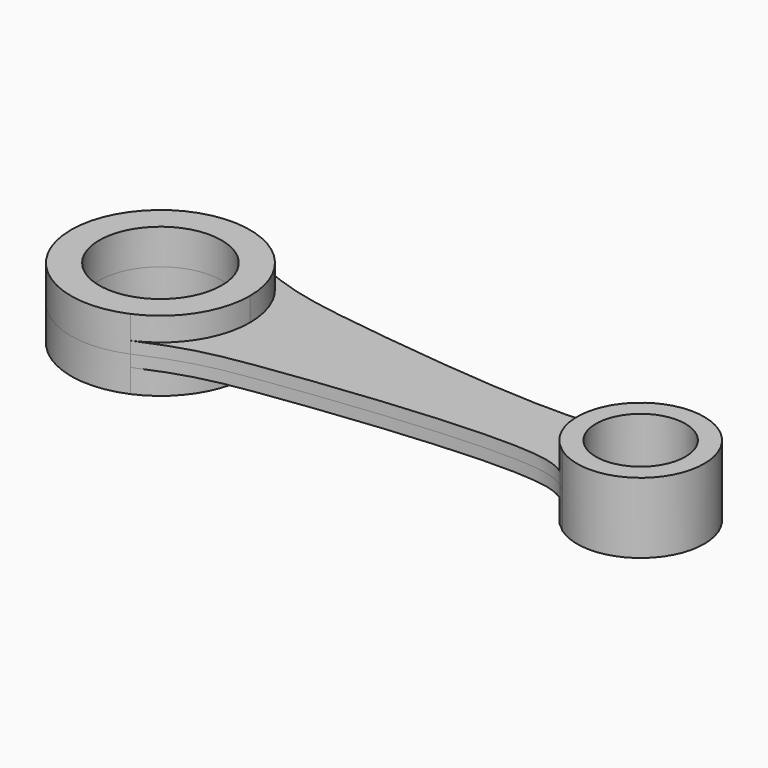
from build123d import *

# Parameters (mm, degrees)
F0_R          = 9.5
F1_DEPTH      = 7.5
F1_DEPTH_BACK = 7.5
F2_DEPTH      = 2.5
F2_DEPTH_BACK = 2.5
F0_R_2        = 13
F3_DEPTH      = 7.5
F3_DEPTH_BACK = 7.5


with BuildPart() as f1:
    # F0 (on Top) → F1 (new body, two sides)
    with BuildSketch(Plane.XY) as f1_sk:
        with BuildLine():
            add(Edge.make_bspline(
                [(43.9010166471, 9.5806238455), (44.5485219286, 10.0415760161), (45.0751125089, 10.5266840027), (45.5859115044, 11)],
                knots=[0.9350422263, 0.9350422263, 0.9350422263, 0.9350422263, 1, 1, 1, 1], degree=3))
            ThreePointArc((43.9010166471, 9.5806238455), (39.9121494256, 0), (43.9010166471, -9.5806238455))
            add(Edge.make_bspline(
                [(43.9010166471, -9.5806238455), (44.5485219286, -10.0415760161), (45.0751125089, -10.5266840027), (45.5859115044, -11)],
                knots=[0.9350422263, 0.9350422263, 0.9350422263, 0.9350422263, 1, 1, 1, 1], degree=3))
            ThreePointArc((45.5859115044, -11), (59.6006786557, -11.9980042494), (66.9121494256, 0))
            ThreePointArc((66.9121494256, 0), (59.6006786557, 11.9980042494), (45.5859115044, 11))
        make_face()
        with Locations((53.4121494256, 0)):
            Circle(F0_R, mode=Mode.SUBTRACT)
    extrude(amount=F1_DEPTH)
    extrude(f1_sk.sketch, amount=-F1_DEPTH_BACK)

    # F0 (on Top) → F2 (join, two sides)
    with BuildSketch(Plane.XY) as f2_sk:
        with BuildLine():
            ThreePointArc((-41.0227190043, 17.4289639487), (-32.7017324231, 10.4226316295), (-29.5878505744, 0))
            ThreePointArc((-29.5878505744, 0), (-32.7017324231, -10.4226316295), (-41.0227190043, -17.4289639487))
            add(Edge.make_bspline(
                [(-41.0227190043, -17.4289639487), (-31.8343407137, -13.4407010268), (-20.2692157487, -11.0133845608), (34.5806966737, -4.8452402532), (42.7048954376, -8.7291177906), (43.9010166471, -9.5806238455)],
                knots=[0, 0, 0, 0, 0.3290608689, 0.8150472654, 0.9350422263, 0.9350422263, 0.9350422263, 0.9350422263], degree=3))
            ThreePointArc((43.9010166471, -9.5806238455), (39.9121494256, 0), (43.9010166471, 9.5806238455))
            add(Edge.make_bspline(
                [(-41.0227190043, 17.4289639487), (-31.8343407137, 13.4407010268), (-20.2692157487, 11.0133845608), (34.5806966737, 4.8452402532), (42.7048954376, 8.7291177906), (43.9010166471, 9.5806238455)],
                knots=[0, 0, 0, 0, 0.3290608689, 0.8150472654, 0.9350422263, 0.9350422263, 0.9350422263, 0.9350422263], degree=3))
        make_face()
    extrude(amount=F2_DEPTH)
    extrude(f2_sk.sketch, amount=-F2_DEPTH_BACK)

    # F0 (on Top) → F3 (join, two sides)
    with BuildSketch(Plane.XY) as f3_sk:
        with BuildLine():
            ThreePointArc((-41.0227190043, -17.4289639487), (-32.7017324231, -10.4226316295), (-29.5878505744, 0))
            ThreePointArc((-29.5878505744, 0), (-32.7017324231, 10.4226316295), (-41.0227190043, 17.4289639487))
            ThreePointArc((-41.0227190043, 17.4289639487), (-67.5878505744, 0), (-41.0227190043, -17.4289639487))
        make_face()
        with Locations((-48.5878505744, 0)):
            Circle(F0_R_2, mode=Mode.SUBTRACT)
    extrude(amount=F3_DEPTH)
    extrude(f3_sk.sketch, amount=-F3_DEPTH_BACK)


solid = f1.part
